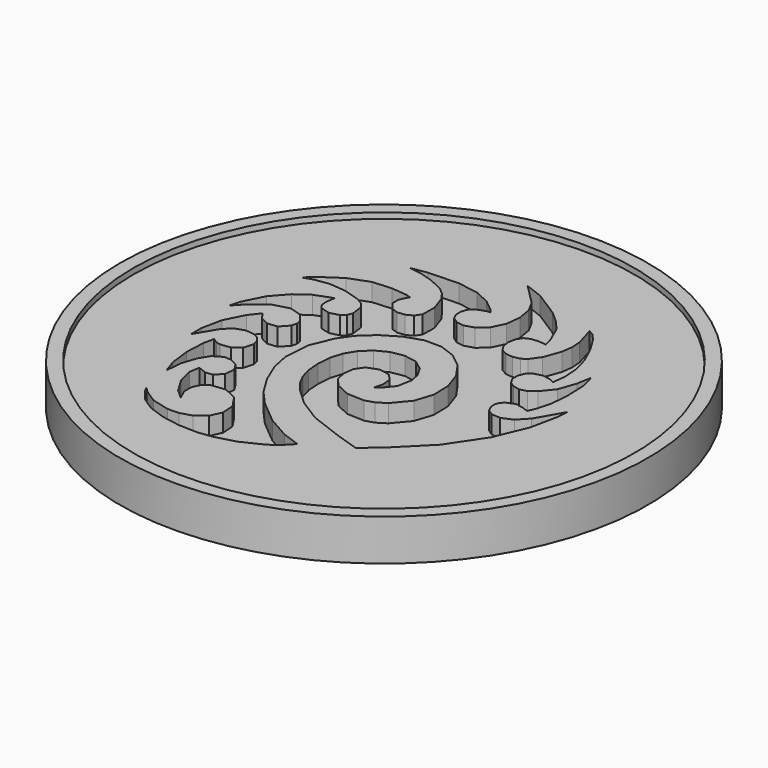
from build123d import *

# Parameters (mm, degrees)
F3_DEPTH = 3.175


with BuildPart() as f1:
    # F0 (on Front) → F1 (revolve)
    with BuildSketch(Plane.XZ):
        Polygon((-44.60875, 7.366), (-46.99, 7.366), (-46.99, 0), (0, 0), (0, 6.35), (-44.60875, 6.35), align=None)
    revolve(axis=Axis((0, 0, 3.175), (0, 0, -1)))

    # F2 (on face) → F3 (cut)
    with BuildSketch(Plane.XY.offset(6.35)):
        Polygon((8.022641, 27.475815), (3.511194, 30.349342), (0.336448, 31.557214), (3.964889, 27.923033), (5.041748, 25.922402), (5.466563, 23.40262), (5.168265, 20.807502), (4.075735, 18.580989), (2.477414, 17.193692), (0.858012, 16.690899), (-0.559232, 16.878325), (-1.551051, 17.561814), (-2.026717, 18.55249), (-2.068322, 19.660768), (-1.711757, 20.691399), (-0.993038, 21.44903), (0.585419, 22.040367), (1.275994, 22.075648), (0.711911, 22.805212), (-1.241247, 24.381663), (-3.858539, 25.581864), (-7.600264, 26.207288), (-12.996774, 26.00513), (-15.879801, 25.530835), (-13.477088, 25.188291), (-11.314505, 24.535832), (-8.767572, 23.363657), (-7.557948, 22.349917), (-6.587846, 21.010601), (-5.660238, 18.310123), (-5.719724, 15.752216), (-6.412052, 14.74282), (-7.55838, 14.143609), (-8.846744, 14.006525), (-9.965131, 14.383487), (-11.097692, 15.764789), (-11.072774, 17.14594), (-10.310216, 18.655716), (-11.129569, 18.932881), (-13.935634, 19.199149), (-17.27581, 18.964656), (-20.871891, 17.62318), (-24.44402, 15.202281), (-25.8159, 13.878103), (-24.020678, 14.484502), (-21.45858, 14.833702), (-18.679312, 14.585798), (-15.679928, 13.696899), (-14.484401, 13.004267), (-13.735126, 12.098401), (-13.454253, 9.93587), (-13.816889, 9.006891), (-14.528927, 8.390611), (-16.212464, 7.968539), (-17.897678, 8.448294), (-18.458459, 9.270441), (-18.532704, 10.436022), (-18.275859, 11.928983), (-21.347049, 10.78484), (-23.716996, 9.092311), (-26.061899, 6.446266), (-27.823389, 2.943682), (-28.377718, 1.00805), (-26.477189, 3.016326), (-23.83884, 4.950333), (-21.136127, 5.700166), (-19.065443, 5.091405), (-17.775631, 3.582391), (-17.593615, 2.649957), (-17.85554, 1.70147), (-19.152819, 0.296723), (-20.931454, 0.113157), (-22.469805, 0.919048), (-23.249306, 2.114474), (-24.688648, 0.292252), (-26.380059, -3.03657), (-27.1383, -6.704101), (-27.132864, -9.023299), (-24.974557, -5.385339), (-23.602315, -3.953764), (-21.878341, -3.377946), (-20.316647, -3.552571), (-19.383693, -4.053858), (-18.663844, -4.926559), (-18.427014, -5.905094), (-18.921882, -7.697114), (-20.319289, -8.680069), (-22.02401, -8.908263), (-22.877729, -8.706129), (-23.698225, -8.141843), (-24.106911, -10.04255), (-24.260912, -13.561289), (-23.83249, -17.129404), (-22.984689, -19.68754), (-22.746157, -16.819982), (-21.921876, -14.246809), (-20.823072, -12.438355), (-19.214922, -11.484077), (-17.924424, -11.559616), (-16.581907, -12.298782), (-15.740075, -13.607161), (-15.951657, -15.390444), (-17.088129, -16.634409), (-18.389016, -16.785057), (-19.903796, -16.190366), (-20.199223, -18.01241), (-19.549643, -20.676743), (-17.942851, -23.367496), (-16.335502, -24.823699), (-17.10563, -23.034092), (-17.097629, -21.412302), (-16.470833, -20.115962), (-15.384526, -19.30273), (-12.9, -19.025718), (-10.563098, -20.119365), (-9.065285, -22.364675), (-8.906739, -24.634876), (-9.832188, -26.613968), (-11.586464, -27.985822), (-13.637895, -28.601238), (-15.570454, -28.650387), (-18.751702, -27.822627), (-20.979155, -26.38011), (-21.925737, -25.467056), (-21.353018, -26.488187), (-19.788734, -28.392984), (-17.602886, -29.845584), (-14.649704, -30.883606), (-11.345951, -31.462904), (-8.007909, -31.557214), (-5.47243, -31.255919), (-1.925498, -30.281524), (1.854454, -28.462249), (3.588537, -27.182115), (5.088992, -25.626365), (1.819808, -24.444604), (-2.102256, -22.206483), (-6.100369, -18.866434), (-8.423173, -16.270173), (-10.471887, -12.915316), (-11.966905, -9.32975), (-12.628677, -6.04139), (-12.296064, -1.506525), (-10.689006, 2.412136), (-9.067978, 4.779772), (-6.650355, 6.993433), (-3.736975, 8.762035), (-0.628726, 9.794494), (2.418537, 9.789008), (5.233848, 8.748039), (7.6438, 6.83707), (9.474987, 4.221531), (10.5283, 1.120597), (10.615244, -2.16154), (9.578391, -5.331739), (7.260285, -8.096885), (5.709412, -9.069375), (4.111803, -9.570441), (1.038733, -9.448851), (-1.434008, -8.313191), (-2.781554, -6.744665), (-3.154401, -4.984572), (-2.931312, -3.17025), (-1.939493, -1.700733), (-0.006274, -0.975055), (1.940458, -1.295781), (2.954274, -2.447722), (3.180004, -4.053408), (2.762453, -5.735371), (3.693185, -4.954626), (5.043424, -3.270402), (5.518531, -0.699033), (5.178628, 0.980694), (4.183075, 2.763723), (2.425725, 4.068343), (0.184277, 4.465117), (-2.168525, 4.062832), (-4.259859, 2.970352), (-5.849849, 1.436548), (-6.957974, -0.374218), (-7.600569, -2.479751), (-7.793965, -4.897857), (-7.599832, -7.252233), (-7.049948, -9.247302), (-6.11571, -11.021771), (-4.768647, -12.714478), (-1.910842, -15.38285), (2.035745, -17.869171), (7.993863, -20.130643), (12.167387, -21.480348), (15.69659, -18.406897), (20.724825, -13.369366), (24.849684, -7.220483), (27.23581, -1.490294), (28.234742, 3.300374), (28.377693, 5.317973), (25.714503, 0.694639), (24.055121, -1.046353), (22.184233, -1.858061), (20.569276, -1.725066), (19.588683, -1.074115), (19.114389, -0.156566), (19.018225, 0.776148), (19.274053, 1.557782), (19.840194, 2.170125), (21.298941, 2.769286), (22.82665, 2.471572), (23.667314, 2.112137), (23.82868, 2.190674), (24.413413, 3.512261), (25.050344, 5.908827), (25.339827, 9.114155), (25.184329, 12.953441), (24.529212, 15.439847), (24.068151, 12.877216), (23.023805, 9.866884), (21.260562, 7.673797), (20.10631, 6.824497), (18.865139, 6.498336), (17.672202, 6.747739), (16.717289, 7.399909), (16.153409, 8.385505), (16.133597, 9.635287), (16.602431, 10.730179), (17.309821, 11.378438), (18.883884, 11.821033), (20.378725, 11.510797), (21.200415, 11.144682), (21.474938, 13.442264), (21.257819, 16.32011), (20.519593, 18.986271), (19.112763, 22.051391), (17.537684, 24.617147), (16.408679, 25.854076), (15.556433, 26.323366), (16.584219, 22.809759), (16.698392, 20.973847), (16.437559, 19.058636), (15.375484, 16.125546), (14.138732, 14.404137), (13.235305, 13.812317), (12.005539, 13.569163), (10.719867, 13.723772), (9.648698, 14.325244), (9.011514, 15.376754), (8.828202, 16.669258), (9.069603, 17.933264), (9.706585, 18.899403), (10.732364, 19.37672), (11.91641, 19.48119), (13.301116, 19.335598), (13.013157, 20.726756), (11.641709, 23.832363), (10.132314, 25.637947), align=None)
    extrude(amount=-F3_DEPTH, mode=Mode.SUBTRACT)


solid = f1.part
